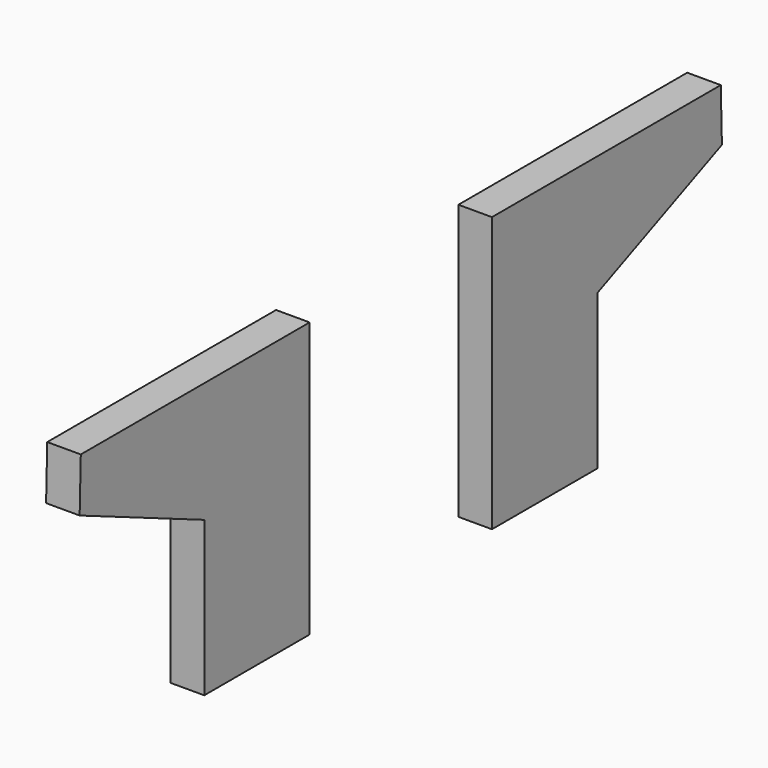
from build123d import *

# Parameters (mm, degrees)
F1_DEPTH = 5


with BuildPart() as f1:
    # F0 (on Right) → F1 (new body)
    with BuildSketch(Plane.YZ):
        Polygon((-16.976047, 63.282937), (-59.5793, 63.282937), (-59.793413, 55.360775), (-36.592815, 45.363773), (-36.592815, 22.351798), (-16.976047, 22.351798), align=None)
    extrude(amount=F1_DEPTH)


with BuildPart() as f2_1:
    # F2: instance of F1
    add(f1.part.mirror(Plane.XZ))


solid = Compound([f1.part, f2_1.part])
